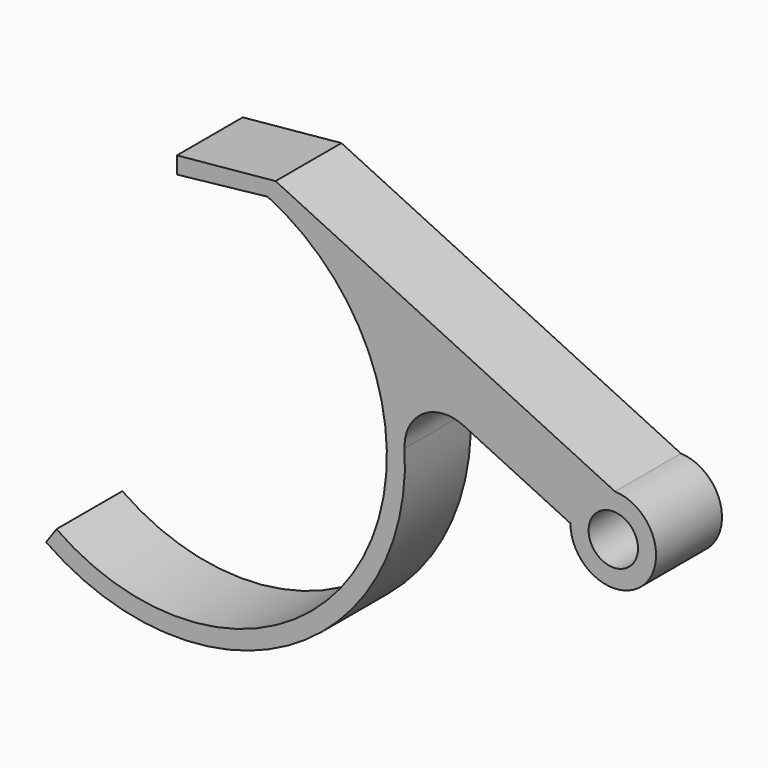
from build123d import *

# Parameters (mm, degrees)
F0_R     = 3
F1_DEPTH = 10


with BuildPart() as f1:
    # F0 (on Front) → F1 (new body)
    with BuildSketch(Plane.XZ):
        with BuildLine():
            ThreePointArc((-11.631738, 22.991001), (-0.648629, -12.871174), (-37.288071, -20.888377))
            Line((-37.288071, -20.888377), (-38.549939, -22.690512))
            ThreePointArc((-38.549939, -22.690512), (-9.219197, -24.219506), (4.998539, 1.480421))
            ThreePointArc((4.998539, 1.480421), (7.215942, 5.906596), (12.154164, 6.255685))
            Line((12.154164, 6.255685), (25.138195, 0.026482))
            ThreePointArc((25.138195, 0.026482), (33.931194, -3.758973), (30.546238, 5.195834))
            Line((30.546238, 5.195834), (-10.680119, 24.974539))
            Line((-10.680119, 24.974539), (-22.661872, 23.830803))
            Line((-22.661872, 23.830803), (-22.661872, 21.77806))
            Line((-22.661872, 21.77806), (-11.631738, 22.991001))
        make_face()
        with Locations((30.338128, 0)):
            Circle(F0_R, mode=Mode.SUBTRACT)
    extrude(amount=F1_DEPTH)


solid = f1.part
